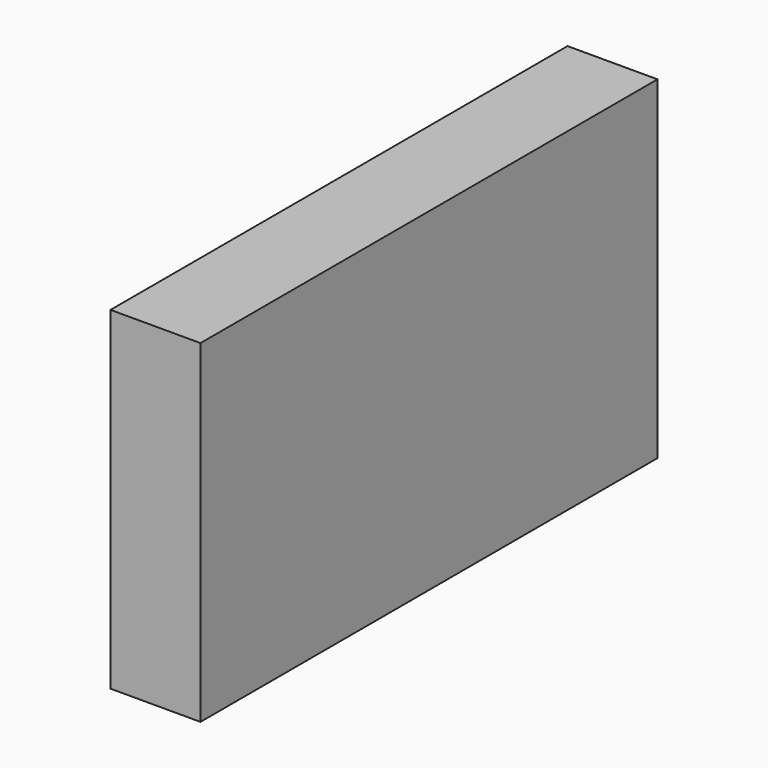
from build123d import *

# Parameters (mm, degrees)
F0_W     = 13.702366
F0_H     = 87.01773
F1_DEPTH = 25.4


with BuildPart() as f1:
    # F0 (on Top) → F1 (new body)
    with BuildSketch(Plane.XY):
        with Locations((-40.37085, -4.232656)):
            Rectangle(F0_W, F0_H)
    extrude(amount=F1_DEPTH)

    # F2: F1 across plane


with BuildPart() as f1_1:
    add(f1.part)
    add(f1.part.mirror(Plane.XY))


solid = f1_1.part
